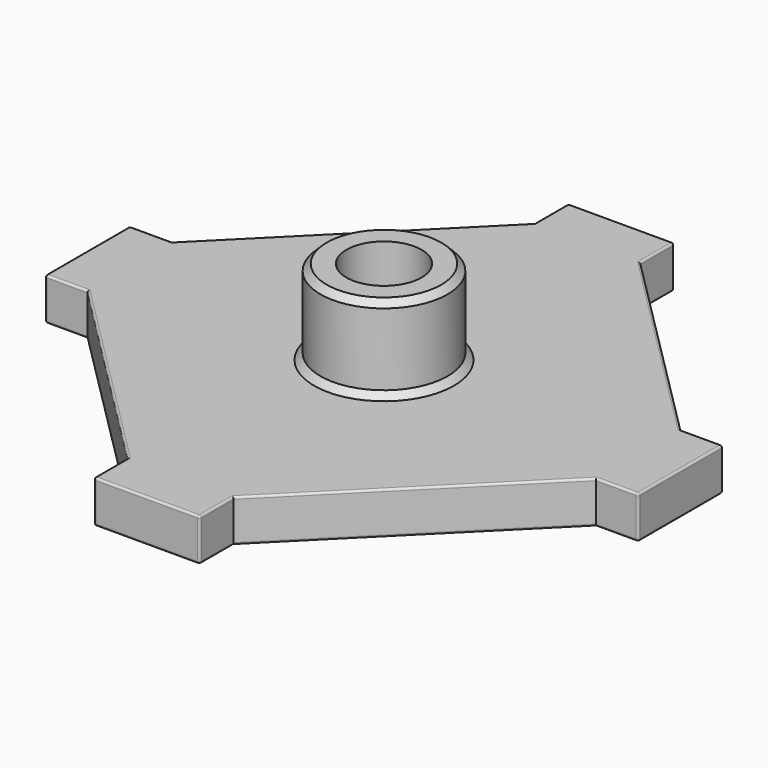
from build123d import *

# Parameters (mm, degrees)
PAD_DEPTH       = 4
SKETCH_R        = 6
PAD001_DEPTH    = 8
SKETCH002_R     = 3.55
POCKET_DEPTH    = 20
SKETCH003_R     = 1.1
POCKET001_DEPTH = 3.5
FILLET_R        = 0.2
CHAMFER_SIZE    = 0.6


with BuildPart() as part:
    # Sketch001 → Pad (new body)
    with BuildSketch(Plane.XY):
        Polygon((-5, 28), (5, 28), (5, 24), (24, 5), (28, 5), (28, -5), (24, -5), (5, -24), (5, -28), (-5, -28), (-5, -24), (-24, -5), (-28, -5), (-28, 5), (-24, 5), (-5, 24), align=None)
    extrude(amount=PAD_DEPTH)

    # Sketch (on Face18 of Pad) → Pad001 (join)
    with BuildSketch(Plane.XY.offset(4)):
        Circle(SKETCH_R)
    extrude(amount=PAD001_DEPTH)

    # Sketch002 (on Face20 of Pad001) → Pocket (cut)
    with BuildSketch(Plane.XY.offset(12)):
        Circle(SKETCH002_R)
    extrude(amount=-POCKET_DEPTH, mode=Mode.SUBTRACT)

    # Sketch003 (on Face4 of Pocket) → Pocket001 (cut)
    with BuildSketch(Plane(origin=(0, 0, 0), x_dir=(1, 0, 0), z_dir=(0, 0, -1))):
        with Locations((0, 24)):
            Circle(SKETCH003_R)
        with Locations((24, 0)):
            Circle(SKETCH003_R)
        with Locations((-24, 0)):
            Circle(SKETCH003_R)
        with Locations((0, -24)):
            Circle(SKETCH003_R)
    extrude(amount=-POCKET001_DEPTH, mode=Mode.SUBTRACT)

    # Fillet
    fillet_edges = [part.edges().sort_by_distance(p)[0] for p in [
        (28, 0, 4),
        (28, 0, 0),
        (28, 5, 2),
        (26, 5, 4),
        (14.5, 14.5, 4),
        (26, 5, 0),
        (14.5, 14.5, 0),
        (5, 26, 4),
        (5, 26, 0),
        (5, 28, 2),
        (0, 28, 4),
        (0, 28, 0),
        (-5, 28, 2),
        (-5, 26, 4),
        (-14.5, 14.5, 4),
        (-14.5, 14.5, 0),
        (-26, 5, 0),
        (-26, 5, 4),
        (-28, 5, 2),
        (-28, 0, 4),
        (-26, -5, 4),
        (-14.5, -14.5, 4),
        (-5, -26, 4),
        (0, -28, 4),
        (5, -26, 4),
        (14.5, -14.5, 4),
        (26, -5, 4),
        (28, -5, 2),
        (-28, 0, 0),
        (-28, -5, 2),
        (-26, -5, 0),
        (-14.5, -14.5, 0),
        (-5, -26, 0),
        (-5, -28, 2),
        (0, -28, 0),
        (5, -28, 2),
        (14.5, -14.5, 0),
        (5, -26, 0),
        (26, -5, 0),
        (-5, 26, 0),
    ]]
    fillet(fillet_edges, radius=FILLET_R)

    # Chamfer
    chamfer_edges = [part.edges().sort_by_distance(p)[0] for p in [
        (6, 0, 8),
        (-6, 0, 4),
        (-6, 0, 12),
    ]]
    chamfer(chamfer_edges, length=CHAMFER_SIZE)


solid = part.part
